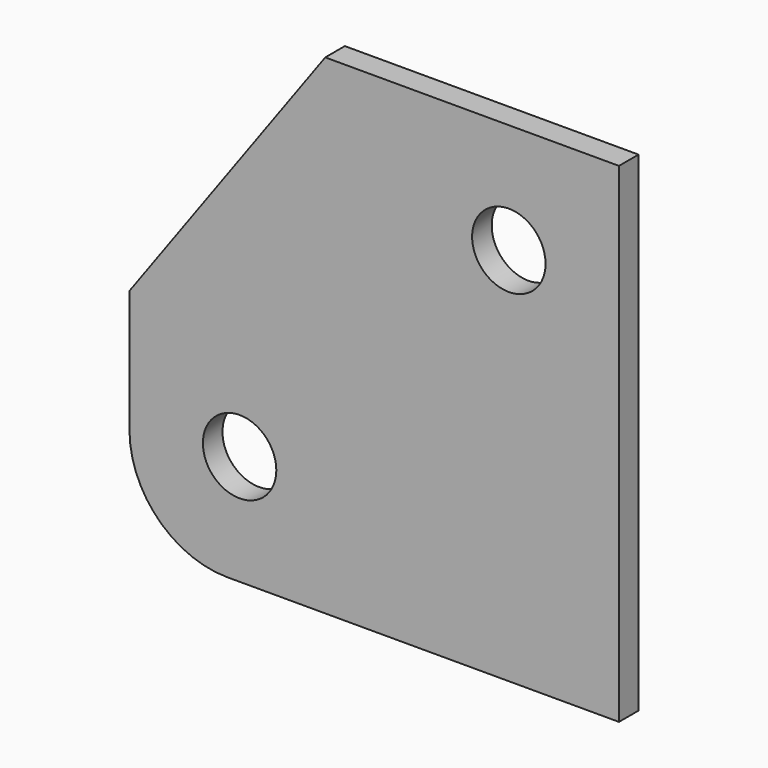
from build123d import *

# Parameters (mm, degrees)
F0_W     = 200
F0_H     = 200
F1_DEPTH = 10
F3_R     = 15
F4_DEPTH = 10.001
F5_R     = 40
F6_SIZE2 = 110
F6_SIZE  = 80


with BuildPart() as f1:
    # F0 (on Front) → F1 (new body)
    with BuildSketch(Plane.XZ):
        Rectangle(F0_W, F0_H)
    extrude(amount=-F1_DEPTH)

    # F3 (on face) → F4 (cut, through all)
    with BuildSketch(Plane.XZ):
        with Locations((-55, -55)):
            Circle(F3_R)
        with Locations((55, 55)):
            Circle(F3_R)
    extrude(amount=-F4_DEPTH, mode=Mode.SUBTRACT)

    # F5
    f5_edges = [f1.edges().sort_by_distance(p)[0] for p in [
        (-100, 5, -100),
    ]]
    fillet(f5_edges, radius=F5_R)

    # F6
    f6_edges = [f1.edges().sort_by_distance(p)[0] for p in [
        (-100, 5, 100),
    ]]
    f6_side = f1.faces().sort_by_distance((0, 5, 100))[0]
    chamfer(f6_edges, length=F6_SIZE, length2=F6_SIZE2, reference=f6_side)


solid = f1.part
